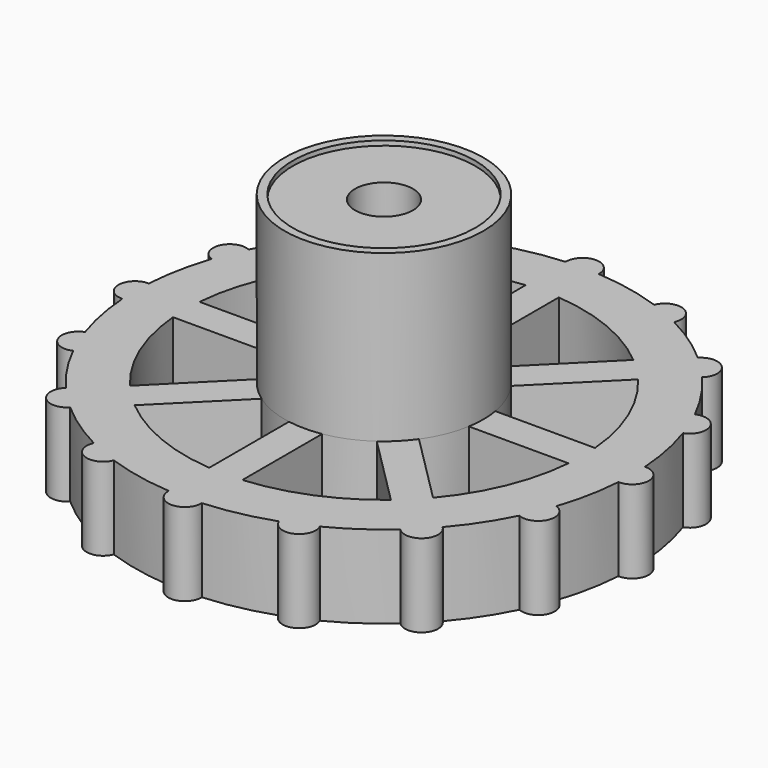
from build123d import *

# Parameters (mm, degrees)
PAD_DEPTH       = 5
POCKET_DEPTH    = 5
POCKET001_DEPTH = 2.7
SKETCH001_R     = 6
PAD001_DEPTH    = 10
SKETCH003_R     = 1.75
POCKET002_DEPTH = 15.001
SKETCH_R        = 5.5
POCKET003_DEPTH = 0.28
SKETCH008_R     = 3.108339
PAD002_DEPTH    = 0.28


with BuildPart() as part:
    # Sketch002 → Pad (new body)
    with BuildSketch(Plane(origin=(0, 0, 0), x_dir=(1, 0, 0), z_dir=(0, 0, -1))):
        with BuildLine():
            ThreePointArc((-6.818582, 13.360649), (-8.459114, 12.387227), (-9.962838, 11.213468))
            ThreePointArc((-9.962838, 11.213468), (-11.40037, 11.226378), (-11.365355, 9.789214))
            ThreePointArc((-11.365355, 9.789214), (-12.514173, 8.270155), (-13.461245, 6.617771))
            ThreePointArc((-13.461245, 6.617771), (-14.797088, 6.086557), (-14.221642, 4.769163))
            ThreePointArc((-14.221642, 4.769163), (-14.712665, 2.9219), (-14.964788, 1.027192))
            ThreePointArc((-14.964788, 1.027192), (-15.999972, 0.029665), (-14.968494, -0.971693))
            ThreePointArc((-14.968494, -0.971693), (-14.718057, -2.894616), (-14.221642, -4.769163))
            ThreePointArc((-14.221642, -4.769163), (-14.797088, -6.086557), (-13.461245, -6.617771))
            ThreePointArc((-13.461245, -6.617771), (-12.514173, -8.270155), (-11.365355, -9.789214))
            ThreePointArc((-11.365355, -9.789214), (-11.40037, -11.226378), (-9.962838, -11.213468))
            ThreePointArc((-9.962838, -11.213468), (-8.459114, -12.387227), (-6.818582, -13.360649))
            ThreePointArc((-6.818582, -13.360649), (-6.307429, -14.704296), (-4.981567, -14.148639))
            ThreePointArc((-4.981567, -14.148639), (-3.026004, -14.691606), (-1.015045, -14.965617))
            ThreePointArc((-1.015045, -14.965617), (-0.016678, -15.999991), (0.983842, -14.9677))
            ThreePointArc((0.983842, -14.9677), (3.010688, -14.694753), (4.981567, -14.148639))
            ThreePointArc((4.981567, -14.148639), (6.307429, -14.704296), (6.818582, -13.360649))
            ThreePointArc((6.818582, -13.360649), (8.459114, -12.387227), (9.962838, -11.213468))
            ThreePointArc((9.962838, -11.213468), (11.40037, -11.226378), (11.365355, -9.789214))
            ThreePointArc((11.365355, -9.789214), (12.514173, -8.270155), (13.461245, -6.617771))
            ThreePointArc((13.461245, -6.617771), (14.797088, -6.086557), (14.221642, -4.769163))
            ThreePointArc((14.221642, -4.769163), (14.718057, -2.894616), (14.968494, -0.971693))
            ThreePointArc((14.968494, -0.971693), (15.999972, 0.029665), (14.964788, 1.027192))
            ThreePointArc((14.964788, 1.027192), (14.712665, 2.9219), (14.221642, 4.769163))
            ThreePointArc((14.221642, 4.769163), (14.797088, 6.086557), (13.461245, 6.617771))
            ThreePointArc((13.461245, 6.617771), (12.514173, 8.270155), (11.365355, 9.789214))
            ThreePointArc((11.365355, 9.789214), (11.40037, 11.226378), (9.962838, 11.213468))
            ThreePointArc((9.962838, 11.213468), (8.459114, 12.387227), (6.818582, 13.360649))
            ThreePointArc((6.818582, 13.360649), (6.307429, 14.704296), (4.981567, 14.148639))
            ThreePointArc((4.981567, 14.148639), (3.010688, 14.694753), (0.983842, 14.9677))
            ThreePointArc((0.983842, 14.9677), (-0.016678, 15.999991), (-1.015045, 14.965617))
            ThreePointArc((-1.015045, 14.965617), (-3.026004, 14.691606), (-4.981567, 14.148639))
            ThreePointArc((-4.981567, 14.148639), (-6.307429, 14.704296), (-6.818582, 13.360649))
        make_face()
    extrude(amount=PAD_DEPTH)

    # Sketch006 → Pocket (cut)
    with BuildSketch(Plane.XY):
        with BuildLine():
            ThreePointArc((-9.143797, 7.729592), (-11.061719, 4.581917), (-11.931287, 1))
            Line((-5.91608, 1), (-11.931287, 1))
            ThreePointArc((-4.890405, 3.476196), (-5.543277, 2.296102), (-5.91608, 1))
            Line((-9.143797, 7.729592), (-4.890405, 3.476196))
        make_face()
        with BuildLine():
            ThreePointArc((-11.931287, -1), (-11.061721, -4.581914), (-9.143802, -7.729585))
            Line((-4.890408, -3.476192), (-9.143802, -7.729585))
            ThreePointArc((-5.91608, -1), (-5.543277, -2.2961), (-4.890408, -3.476192))
            Line((-5.91608, -1), (-11.931287, -1))
        make_face()
        with BuildLine():
            ThreePointArc((-1, 11.931287), (-4.581912, 11.061722), (-7.729583, 9.143804))
            Line((-7.729583, 9.143804), (-3.476191, 4.890408))
            ThreePointArc((-1, 5.91608), (-2.296099, 5.543278), (-3.476191, 4.890408))
            Line((-1, 11.931287), (-1, 5.91608))
        make_face()
        with BuildLine():
            ThreePointArc((7.729588, 9.143799), (4.581915, 11.06172), (1, 11.931287))
            Line((1, 11.931287), (1, 5.91608))
            ThreePointArc((3.476194, 4.890406), (2.296101, 5.543277), (1, 5.91608))
            Line((7.729588, 9.143799), (3.476194, 4.890406))
        make_face()
        with BuildLine():
            ThreePointArc((9.143797, -7.729592), (11.061719, -4.581917), (11.931287, -1))
            Line((11.931287, -1), (5.91608, -1))
            ThreePointArc((4.890405, -3.476196), (5.543277, -2.296102), (5.91608, -1))
            Line((4.890405, -3.476196), (9.143797, -7.729592))
        make_face()
        with BuildLine():
            ThreePointArc((1, -11.931287), (4.581912, -11.061722), (7.729583, -9.143804))
            Line((3.476191, -4.890408), (7.729583, -9.143804))
            ThreePointArc((1, -5.91608), (2.296099, -5.543278), (3.476191, -4.890408))
            Line((1, -5.91608), (1, -11.931287))
        make_face()
        with BuildLine():
            ThreePointArc((-7.729589, -9.143799), (-4.581916, -11.06172), (-1, -11.931287))
            Line((-1, -5.91608), (-1, -11.931287))
            ThreePointArc((-3.476194, -4.890406), (-2.296101, -5.543277), (-1, -5.91608))
            Line((-3.476194, -4.890406), (-7.729589, -9.143799))
        make_face()
        with BuildLine():
            ThreePointArc((11.931287, 1), (11.061721, 4.581914), (9.143802, 7.729586))
            Line((9.143802, 7.729586), (4.890407, 3.476193))
            ThreePointArc((5.91608, 1), (5.543277, 2.2961), (4.890407, 3.476193))
            Line((11.931287, 1), (5.91608, 1))
        make_face()
    extrude(amount=-POCKET_DEPTH, mode=Mode.SUBTRACT)

    # Sketch007 (on Face34 of Pad) → Pocket001 (cut)
    with BuildSketch(Plane(origin=(0, 0, -5), x_dir=(1, 0, 0), z_dir=(0, 0, -1))):
        Polygon((3.3, -1.918967), (3.311874, 1.8984), (0.011874, 3.817367), (-3.3, 1.918967), (-3.311874, -1.8984), (-0.011874, -3.817367), align=None)
    extrude(amount=-POCKET001_DEPTH, mode=Mode.SUBTRACT)

    # Sketch001 (on Face33 of Pad) → Pad001 (join)
    with BuildSketch(Plane.XY):
        Circle(SKETCH001_R)
    extrude(amount=PAD001_DEPTH)

    # Sketch003 (on Face74 of Pad001) → Pocket002 (cut, through all)
    with BuildSketch(Plane.XY.offset(10)):
        Circle(SKETCH003_R)
    extrude(amount=-POCKET002_DEPTH, mode=Mode.SUBTRACT)

    # Sketch (on Face74 of Pocket002) → Pocket003 (cut)
    with BuildSketch(Plane.XY.offset(10)):
        Circle(SKETCH_R)
    extrude(amount=-POCKET003_DEPTH, mode=Mode.SUBTRACT)

    # Sketch008 (on Face4 of Pocket003) → Pad002 (join)
    with BuildSketch(Plane.XY.offset(-2.3)):
        Circle(SKETCH008_R)
    extrude(amount=PAD002_DEPTH)


solid = part.part
